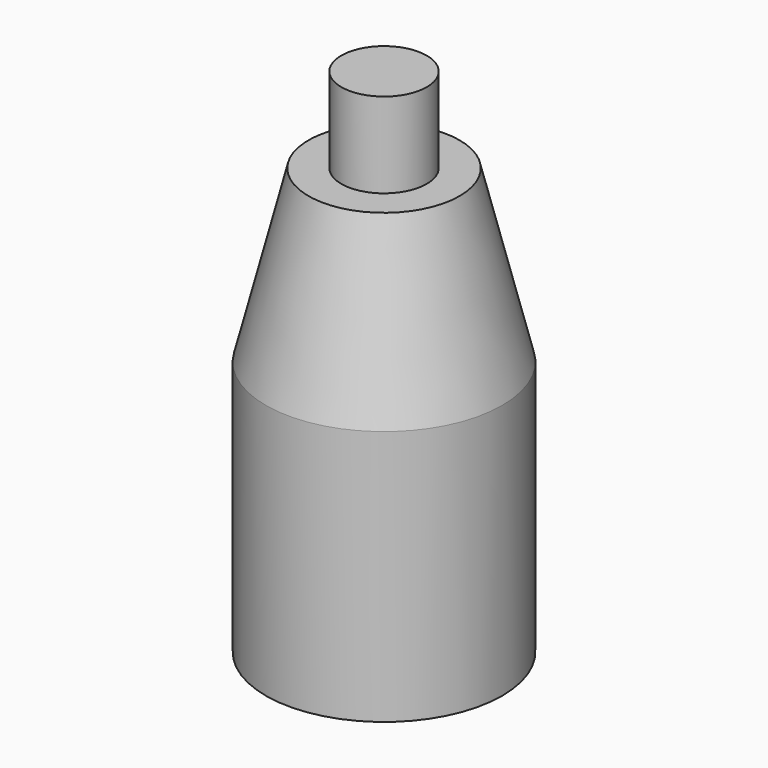
from build123d import *

# Parameters (mm, degrees)
F0_R     = 35.2250481383
F1_DEPTH = 127
F2_SIZE2 = 50.8
F2_SIZE  = 12.7
F3_R     = 12.730483267
F4_DEPTH = 25.4


with BuildPart() as f1:
    # F0 (on Top) → F1 (new body)
    with BuildSketch(Plane.XY):
        Circle(F0_R)
    extrude(amount=F1_DEPTH)

    # F2
    f2_edges = [f1.edges().sort_by_distance(p)[0] for p in [
        (-35.225048, 0, 127),
    ]]
    f2_side = f1.faces().sort_by_distance((0, 0, 127))[0]
    chamfer(f2_edges, length=F2_SIZE, length2=F2_SIZE2, reference=f2_side)

    # F3 (on face) → F4 (join)
    with BuildSketch(Plane.XY.offset(127)):
        Circle(F3_R)
    extrude(amount=F4_DEPTH)


solid = f1.part
